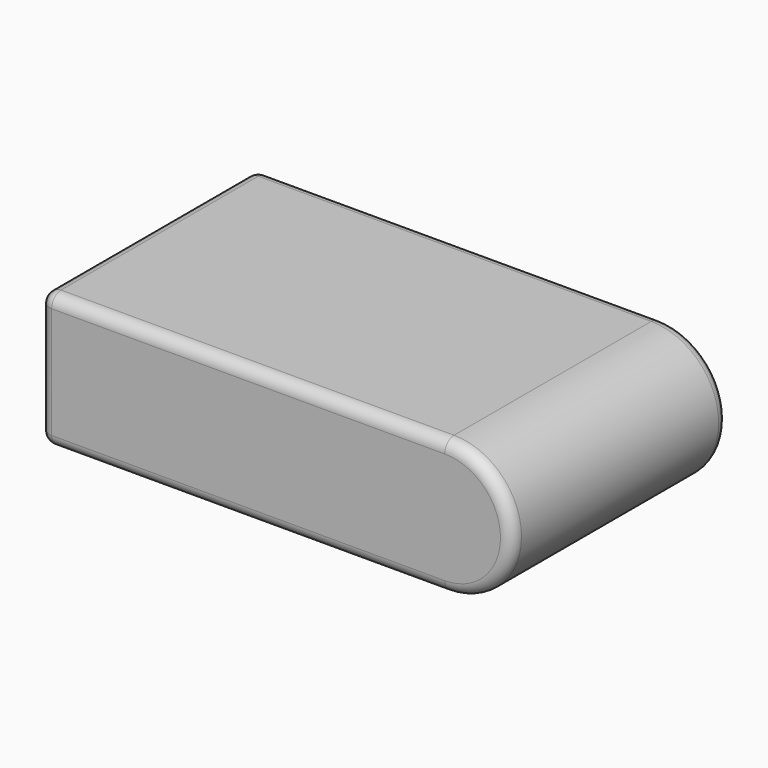
from build123d import *

# Parameters (mm, degrees)
F0_W     = 45
F0_H     = 30
F1_DEPTH = 15
F3_DEPTH = 30
F4_R     = 1.3


with BuildPart() as f1:
    # F0 (on Top) → F1 (new body)
    with BuildSketch(Plane.XY):
        Rectangle(F0_W, F0_H)
    extrude(amount=F1_DEPTH)

    # F2 (on face) → F3 (join, through all)
    with BuildSketch(Plane.XZ.offset(15)):
        with BuildLine():
            Line((22.5, 15), (22.5, 0))
            ThreePointArc((22.5, 0), (30, 7.5), (22.5, 15))
        make_face()
    extrude(amount=-F3_DEPTH)

    # F4
    f4_edges = [f1.edges().sort_by_distance(p)[0] for p in [
        (30, 15, 7.5),
        (0, 15, 0),
        (0, 15, 15),
        (22.5, 0, 15),
        (22.5, 0, 0),
        (-22.5, 0, 15),
        (0, -15, 0),
        (0, -15, 15),
        (-22.5, 0, 0),
        (-22.5, -15, 7.5),
        (-22.5, 15, 7.5),
        (30, -15, 7.5),
    ]]
    fillet(f4_edges, radius=F4_R)


solid = f1.part
